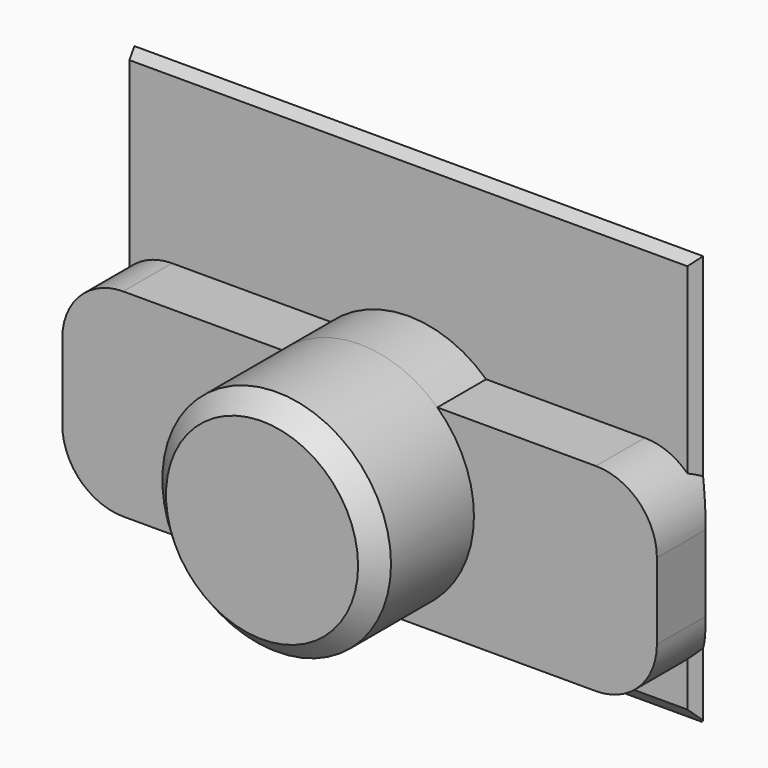
from build123d import *

# Parameters (mm, degrees)
PAD006_DEPTH         = 1
SKETCH010_W          = 9.75
SKETCH010_H          = 7
PAD007_DEPTH         = 1.85
SKETCH012_R          = 1.875
PAD005_DEPTH         = 2
POCKET_DEPTH         = 9.001
POCKET001_DEPTH      = 4.876
POCKET001_DEPTH_BACK = -4.876
CHAMFER_SIZE         = 0.3


with BuildPart() as part:
    # Sketch013 → Pad006 (new body)
    with BuildSketch(Plane.XZ):
        with BuildLine():
            ThreePointArc((1.274755, -5.005), (0, -4.505), (-1.274755, -5.005))
            Line((-1.274755, -5.005), (-3.875, -5.005))
            ThreePointArc((-3.875, -5.005), (-4.582107, -5.297893), (-4.875, -6.005))
            Line((-4.875, -6.005), (-4.875, -7.255))
            ThreePointArc((-4.875, -7.255), (-4.582107, -7.962107), (-3.875, -8.255))
            Line((-3.875, -8.255), (3.875, -8.255))
            ThreePointArc((3.875, -8.255), (4.582107, -7.962107), (4.875, -7.255))
            Line((4.875, -7.255), (4.875, -6.005))
            ThreePointArc((4.875, -6.005), (4.582107, -5.297893), (3.875, -5.005))
            Line((3.875, -5.005), (1.274755, -5.005))
        make_face()
    extrude(amount=PAD006_DEPTH)

    # Sketch010 → Pad007 (join)
    with BuildSketch(Plane.XZ):
        with Locations((0, -5.5)):
            Rectangle(SKETCH010_W, SKETCH010_H)
    extrude(amount=-PAD007_DEPTH)

    # Sketch012 → Pad005 (join)
    with BuildSketch(Plane.XZ.offset(1)):
        with Locations((0, -6.38)):
            Circle(SKETCH012_R)
    extrude(amount=PAD005_DEPTH)

    # Sketch → Pocket (cut, through all)
    with BuildSketch(Plane.XY):
        Polygon((-1.275, 3.6), (-1.275, 1.6), (1.275, 1.6), (1.275, 3.6), (4.875, 0), (4.875, 5), (-4.875, 5), (-4.875, 0), align=None)
    extrude(amount=-POCKET_DEPTH, mode=Mode.SUBTRACT)

    # Sketch014 → Pocket001 (cut, two sides)
    with BuildSketch(Plane.YZ) as pocket001_sk:
        Polygon((0, 0), (0, -2), (4, -6), (4, 0), align=None)
    extrude(amount=-POCKET001_DEPTH, mode=Mode.SUBTRACT)
    extrude(pocket001_sk.sketch, amount=-POCKET001_DEPTH_BACK, mode=Mode.SUBTRACT)

    # Chamfer
    chamfer_edges = [part.edges().sort_by_distance(p)[0] for p in [
        (-1.875, -3, -6.38),
        (0, 1.6, -3.6),
        (-4.875, 0, -4.0025),
        (-4.875, 0, -8.1275),
        (4.875, 0, -4.0025),
        (4.875, 0, -8.1275),
        (0, 0, -9),
        (0, 0, -2),
    ]]
    chamfer(chamfer_edges, length=CHAMFER_SIZE)


solid = part.part
